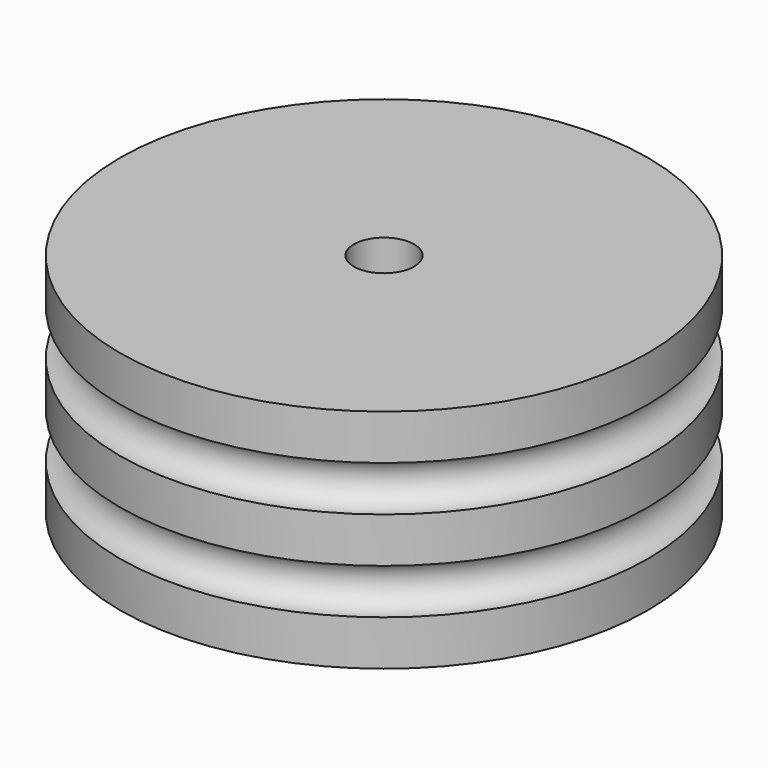
from build123d import *

# Parameters (mm, degrees)
TORUS001_R     = 1.5
TORUS_R        = 1.5
CYLINDER_R     = 17.5
CYLINDER_DEPTH = 15
SKETCH_R       = 2
POCKET_DEPTH   = 15.001


with BuildPart() as bottom_o_ring:
    # Torus001 → Torus001 (revolve)
    with BuildSketch(Plane(origin=(0, 0, 4.5), x_dir=(1, 0, 0), z_dir=(0, -1, 0))):
        with Locations((17.5, 0)):
            Circle(TORUS001_R)
    revolve(axis=Axis((0, 0, 4.5), (0, 0, 1)))


with BuildPart() as o_rings:
    # Torus → Torus (revolve)
    with BuildSketch(Plane(origin=(0, 0, 10.5), x_dir=(1, 0, 0), z_dir=(0, -1, 0))):
        with Locations((17.5, 0)):
            Circle(TORUS_R)
    revolve(axis=Axis((0, 0, 10.5), (0, 0, 1)))

    # Fusion: union bottom-o-ring
    add(bottom_o_ring.part)


with BuildPart() as drill_axle:
    # Cylinder → Cylinder (new body)
    with BuildSketch(Plane.XY):
        Circle(CYLINDER_R)
    extrude(amount=CYLINDER_DEPTH)

    # Cut: cut o-rings
    add(o_rings.part, mode=Mode.SUBTRACT)

    # Sketch → Pocket (cut, through all)
    with BuildSketch(Plane.XY.offset(15)):
        Circle(SKETCH_R)
    extrude(amount=-POCKET_DEPTH, mode=Mode.SUBTRACT)


solid = drill_axle.part
